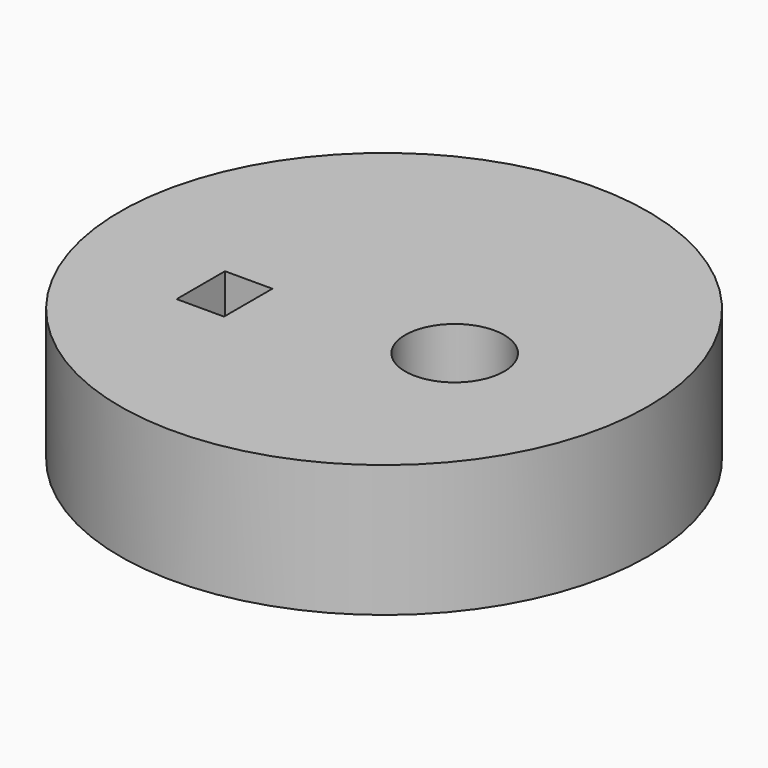
from build123d import *

# Parameters (mm, degrees)
F0_R     = 25.4
F1_DEPTH = 12.7
F2_W     = 4.56177
F2_H     = 5.815812
F3_DEPTH = 12.701
F4_R     = 4.759949
F5_DEPTH = 12.701


with BuildPart() as f1:
    # F0 (on Top) → F1 (new body)
    with BuildSketch(Plane.XY):
        Circle(F0_R)
    extrude(amount=F1_DEPTH)

    # F2 (on face) → F3 (cut, through all)
    with BuildSketch(Plane.XY.offset(12.7)):
        with Locations((-10.897615, -5.573769)):
            Rectangle(F2_W, F2_H)
    extrude(amount=-F3_DEPTH, mode=Mode.SUBTRACT)

    # F4 (on face) → F5 (cut, through all)
    with BuildSketch(Plane(origin=(0, 0, 0), x_dir=(1, 0, 0), z_dir=(0, 0, -1))):
        with Locations((8.635784, 2.300633)):
            Circle(F4_R)
    extrude(amount=-F5_DEPTH, mode=Mode.SUBTRACT)


solid = f1.part
